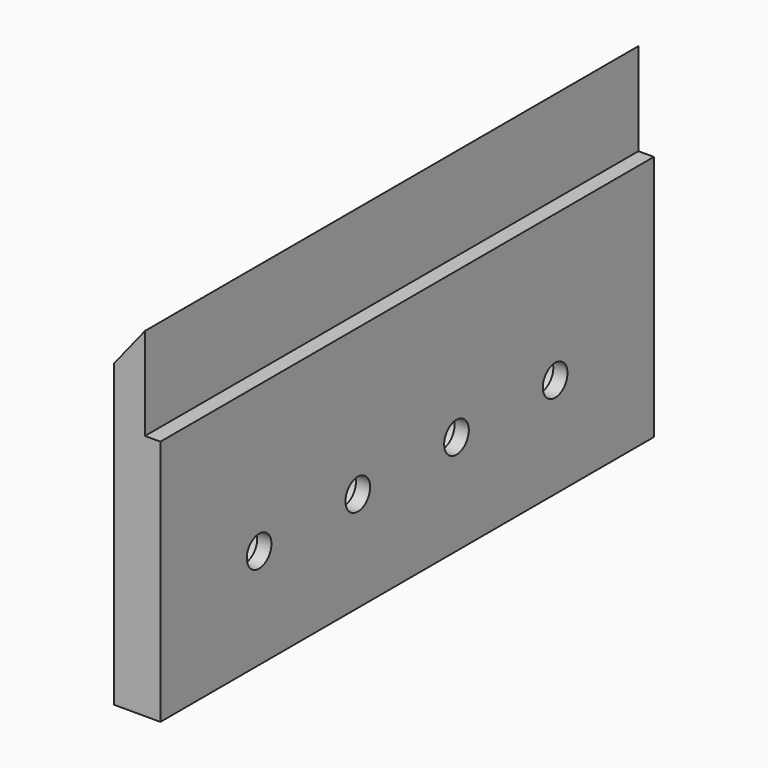
from build123d import *

# Parameters (mm, degrees)
F1_DEPTH = 127
F3_DEPTH = 25.4
F4_R     = 5.55625
F5_DEPTH = 6.604


with BuildPart() as f1:
    # F0 (on Front) → F1 (new body)
    with BuildSketch(Plane.XZ):
        Polygon((0, 61.9125), (0, 0), (9.525, 0), (9.525, 50.8), (6.35, 50.8), (6.35, 69.85), align=None)
    extrude(amount=F1_DEPTH)

    # F2 (on face) → F3 (cut)
    with BuildSketch(Plane(origin=(0, 0, 0), x_dir=(0, -1, 0), z_dir=(-1, 0, 0))):
        with BuildLine():
            ThreePointArc((98.425, 20.6375), (101.6, 17.4625), (104.775, 20.6375))
            Line((104.775, 20.6375), (98.425, 20.6375))
        make_face()
        with BuildLine():
            Line((98.425, 20.6375), (104.775, 20.6375))
            ThreePointArc((104.775, 20.6375), (101.6, 23.8125), (98.425, 20.6375))
        make_face()
        with BuildLine():
            ThreePointArc((22.225, 20.6375), (25.4, 17.4625), (28.575, 20.6375))
            Line((28.575, 20.6375), (22.225, 20.6375))
        make_face()
        with BuildLine():
            Line((22.225, 20.6375), (28.575, 20.6375))
            ThreePointArc((28.575, 20.6375), (25.4, 23.8125), (22.225, 20.6375))
        make_face()
        with BuildLine():
            ThreePointArc((47.625, 20.6375), (50.8, 17.4625), (53.975, 20.6375))
            Line((53.975, 20.6375), (47.625, 20.6375))
        make_face()
        with BuildLine():
            Line((47.625, 20.6375), (53.975, 20.6375))
            ThreePointArc((53.975, 20.6375), (50.8, 23.8125), (47.625, 20.6375))
        make_face()
        with BuildLine():
            ThreePointArc((73.025, 20.6375), (76.2, 17.4625), (79.375, 20.6375))
            Line((79.375, 20.6375), (73.025, 20.6375))
        make_face()
        with BuildLine():
            Line((73.025, 20.6375), (79.375, 20.6375))
            ThreePointArc((79.375, 20.6375), (76.2, 23.8125), (73.025, 20.6375))
        make_face()
    extrude(amount=-F3_DEPTH, mode=Mode.SUBTRACT)

    # F4 (on face) → F5 (cut)
    with BuildSketch(Plane(origin=(0, 0, 0), x_dir=(0, -1, 0), z_dir=(-1, 0, 0))):
        with Locations((101.6, 20.6375)):
            Circle(F4_R)
        with Locations((76.2, 20.6375)):
            Circle(F4_R)
        with Locations((50.8, 20.6375)):
            Circle(F4_R)
        with Locations((25.4, 20.6375)):
            Circle(F4_R)
    extrude(amount=-F5_DEPTH, mode=Mode.SUBTRACT)


solid = f1.part
